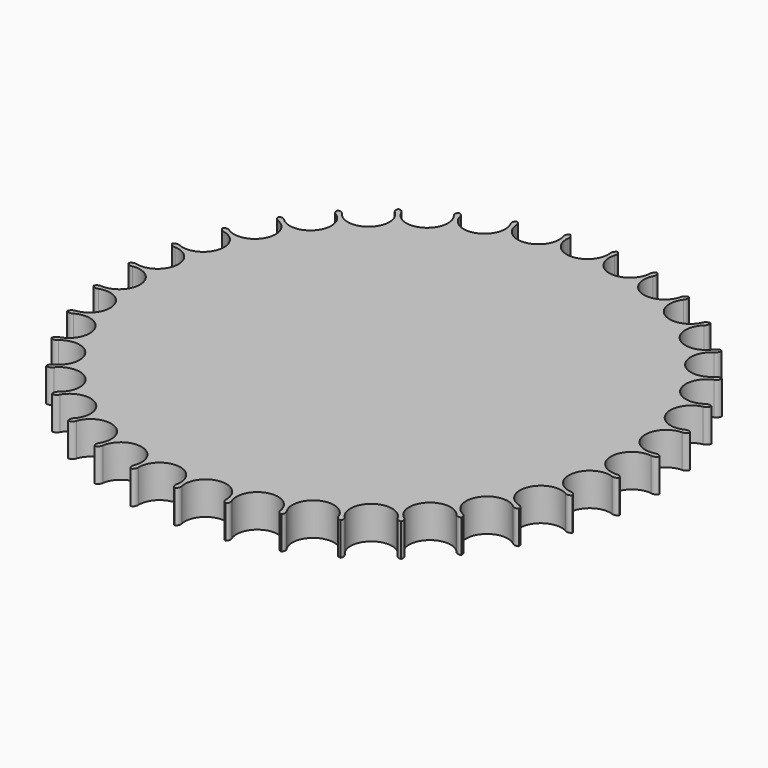
from build123d import *

# Parameters (mm, degrees)
F1_DEPTH = 5


with BuildPart() as f1:
    # F0 (on Top) → F1 (new body)
    with BuildSketch(Plane.XY):
        with BuildLine():
            ThreePointArc((-24.457556, 78.779693), (-28.980906, 79.883488), (-27.460124, 84.284202))
            ThreePointArc((-27.460124, 84.284202), (-27.025335, 84.591656), (-26.889149, 85.106458))
            ThreePointArc((-26.889149, 85.106458), (-27.416891, 85.177568), (-27.867286, 84.893467))
            ThreePointArc((-27.867286, 84.893467), (-32.515034, 85.171848), (-31.804469, 89.773387))
            ThreePointArc((-31.804469, 89.773387), (-31.431566, 90.153534), (-31.38949, 90.684381))
            ThreePointArc((-31.38949, 90.684381), (-31.921448, 90.660115), (-32.313877, 90.300159))
            ThreePointArc((-32.313877, 90.300159), (-36.936641, 89.744179), (-37.059131, 94.398646))
            ThreePointArc((-37.059131, 94.398646), (-36.760099, 94.839268), (-36.813485, 95.369096))
            ThreePointArc((-36.813485, 95.369096), (-37.332562, 95.250236), (-37.654411, 94.825994))
            ThreePointArc((-37.654411, 94.825994), (-42.103612, 93.453522), (-43.055221, 98.011318))
            ThreePointArc((-43.055221, 98.011318), (-42.83967, 98.498254), (-42.986803, 99.010035))
            ThreePointArc((-42.986803, 99.010035), (-43.476314, 98.800401), (-43.71724, 98.325508))
            ThreePointArc((-43.71724, 98.325508), (-47.849876, 96.180657), (-49.600018, 100.495291))
            ThreePointArc((-49.600018, 100.495291), (-49.474877, 101.012889), (-49.711027, 101.490174))
            ThreePointArc((-49.711027, 101.490174), (-50.155241, 101.196503), (-50.307499, 100.686223))
            ThreePointArc((-50.307499, 100.686223), (-53.990744, 97.83793), (-56.483168, 101.770726))
            ThreePointArc((-56.483168, 101.770726), (-56.452459, 102.302351), (-56.770037, 102.7298))
            ThreePointArc((-56.770037, 102.7298), (-57.154674, 102.36153), (-57.213372, 101.832264))
            ThreePointArc((-57.213372, 101.832264), (-60.328843, 98.372076), (-63.483441, 101.79663))
            ThreePointArc((-63.483441, 101.79663), (-63.54815, 102.325195), (-63.936949, 102.689069))
            ThreePointArc((-63.936949, 102.689069), (-64.249648, 102.258038), (-64.212898, 101.726797))
            ThreePointArc((-64.212898, 101.726797), (-66.660462, 97.765926), (-70.375842, 100.572172))
            ThreePointArc((-70.375842, 100.572172), (-70.53389, 101.080688), (-70.981413, 101.369292))
            ThreePointArc((-70.981413, 101.369292), (-71.212123, 100.889353), (-71.081107, 100.37321))
            ThreePointArc((-71.081107, 100.37321), (-72.782097, 96.038964), (-76.938844, 98.136705))
            ThreePointArc((-76.938844, 98.136705), (-77.185151, 98.608829), (-77.677014, 98.812886))
            ThreePointArc((-77.677014, 98.812886), (-77.818321, 98.299465), (-77.597249, 97.815011))
            ThreePointArc((-77.597249, 97.815011), (-78.496993, 93.246694), (-82.961506, 94.568508))
            ThreePointArc((-82.961506, 94.568508), (-83.288156, 94.989064), (-83.80855, 95.102017))
            ThreePointArc((-83.80855, 95.102017), (-83.855911, 94.571616), (-83.55189, 94.134421))
            ThreePointArc((-83.55189, 94.134421), (-83.62147, 89.478863), (-88.250255, 89.982265))
            ThreePointArc((-88.250255, 89.982265), (-88.646749, 90.337737), (-89.178949, 90.355955))
            ThreePointArc((-89.178949, 90.355955), (-89.130842, 89.825621), (-88.753642, 89.449737))
            ThreePointArc((-88.753642, 89.449737), (-87.990823, 84.856572), (-92.635107, 84.525383))
            ThreePointArc((-92.635107, 84.525383), (-93.088701, 84.804346), (-93.615601, 84.727242))
            ThreePointArc((-93.615601, 84.727242), (-93.473573, 84.214021), (-93.035318, 83.911529))
            ThreePointArc((-93.035318, 83.911529), (-91.464616, 79.528385), (-95.975128, 78.373249))
            ThreePointArc((-95.975128, 78.373249), (-96.471244, 78.566737), (-96.975909, 78.396791))
            ThreePointArc((-96.975909, 78.396791), (-96.744524, 77.917177), (-96.2593, 77.6978))
            ThreePointArc((-96.2593, 77.6978), (-93.931199, 73.665554), (-98.162968, 71.723599))
            ThreePointArc((-98.162968, 71.723599), (-98.68566, 71.825392), (-99.15187, 71.568066))
            ThreePointArc((-99.15187, 71.568066), (-98.838564, 71.137476), (-98.321967, 71.008264))
            ThreePointArc((-98.321967, 71.008264), (-95.311294, 67.456516), (-99.128308, 64.790157))
            ThreePointArc((-99.128308, 64.790157), (-99.660775, 64.796985), (-100.073546, 64.460549))
            ThreePointArc((-100.073546, 64.460549), (-99.68839, 64.092821), (-99.157023, 64.057928))
            ThreePointArc((-99.157023, 64.057928), (-95.560544, 61.100835), (-98.84012, 57.795771))
            ThreePointArc((-98.84012, 57.795771), (-99.36525, 57.707413), (-99.711314, 57.302681))
            ThreePointArc((-99.711314, 57.302681), (-99.266688, 57.009635), (-98.73763, 57.070181))
            ThreePointArc((-98.73763, 57.070181), (-94.670938, 54.802786), (-97.307668, 50.965246))
            ThreePointArc((-97.307668, 50.965246), (-97.808582, 50.784542), (-98.076817, 50.324522))
            ThreePointArc((-98.076817, 50.324522), (-97.58701, 50.115576), (-97.077265, 50.269617))
            ThreePointArc((-97.077265, 50.269617), (-92.671068, 48.764795), (-94.580205, 44.518119))
            ThreePointArc((-94.580205, 44.518119), (-95.040803, 44.250878), (-95.222588, 43.750355))
            ThreePointArc((-95.222588, 43.750355), (-94.703344, 43.632226), (-94.229296, 43.874809))
            ThreePointArc((-94.229296, 43.874809), (-89.625212, 43.180928), (-90.745395, 38.661608))
            ThreePointArc((-90.745395, 38.661608), (-91.150874, 38.316418), (-91.240365, 37.79148))
            ThreePointArc((-91.240365, 37.79148), (-90.708373, 37.767964), (-90.285258, 38.091294))
            ThreePointArc((-90.285258, 38.091294), (-85.631266, 38.230654), (-85.926492, 33.583945))
            ThreePointArc((-85.926492, 33.583945), (-86.263818, 33.171902), (-86.25814, 32.639421))
            ThreePointArc((-86.25814, 32.639421), (-85.730498, 32.711273), (-85.371916, 33.104957))
            ThreePointArc((-85.371916, 33.104957), (-80.817599, 34.07308), (-80.278379, 29.448331))
            ThreePointArc((-80.278379, 29.448331), (-80.53671, 28.982677), (-80.436046, 28.459767))
            ThreePointArc((-80.436046, 28.459767), (-79.929713, 28.624679), (-79.647188, 29.076063))
            ThreePointArc((-79.647188, 29.076063), (-75.338926, 30.841833), (-73.98259, 26.387687))
            ThreePointArc((-73.98259, 26.387687), (-74.153625, 25.88339), (-73.961209, 25.386858))
            ThreePointArc((-73.961209, 25.386858), (-73.492459, 25.639528), (-73.295072, 26.134105))
            ThreePointArc((-73.295072, 26.134105), (-69.371337, 28.640768), (-67.241479, 24.500386))
            ThreePointArc((-67.241479, 24.500386), (-67.319719, 23.973653), (-67.041736, 23.519458))
            ThreePointArc((-67.041736, 23.519458), (-66.625635, 23.851766), (-66.519731, 24.37364))
            ThreePointArc((-66.519731, 24.37364), (-63.106633, 27.54063), (-60.271709, 23.847086))
            ThreePointArc((-60.271709, 23.847086), (-60.254641, 23.314848), (-59.900025, 22.917587))
            ThreePointArc((-59.900025, 22.917587), (-59.549947, 23.318853), (-59.538929, 23.85125))
            ThreePointArc((-59.538929, 23.85125), (-56.746169, 27.576777), (-53.297296, 24.448785))
            ThreePointArc((-53.297296, 24.448785), (-53.185466, 23.928148), (-52.765616, 23.600591))
            ThreePointArc((-52.765616, 23.600591), (-52.492813, 24.057917), (-52.577035, 24.583726))
            ThreePointArc((-52.577035, 24.583726), (-50.494374, 28.748049), (-46.542401, 26.286145))
            ThreePointArc((-46.542401, 26.286145), (-46.339406, 25.793842), (-45.867814, 25.546516))
            ThreePointArc((-45.867814, 25.546516), (-45.681054, 26.045204), (-45.857809, 26.547524))
            ThreePointArc((-45.857809, 26.547524), (-44.552187, 31.016798), (-40.224134, 29.30011))
            ThreePointArc((-40.224134, 29.30011), (-39.936496, 28.851966), (-39.428322, 28.69282))
            ThreePointArc((-39.428322, 28.69282), (-39.333607, 29.21684), (-39.597215, 29.679528))
            ThreePointArc((-39.597215, 29.679528), (-39.110594, 34.310107), (-34.545568, 33.39381))
            ThreePointArc((-34.545568, 33.39381), (-34.182534, 33.004227), (-33.654109, 32.938377))
            ThreePointArc((-33.654109, 32.938377), (-33.654484, 33.470888), (-33.996471, 33.879071))
            ThreePointArc((-33.996471, 33.879071), (-34.344492, 38.522124), (-29.689217, 38.435669))
            ThreePointArc((-29.689217, 38.435669), (-29.262454, 38.117169), (-28.730764, 38.146731))
            ThreePointArc((-28.730764, 38.146731), (-28.826216, 38.670618), (-29.235592, 39.011177))
            ThreePointArc((-29.235592, 39.011177), (-30.407069, 43.517473), (-25.811168, 44.263639))
            ThreePointArc((-25.811168, 44.263639), (-25.334394, 44.026459), (-24.816526, 44.150483))
            ThreePointArc((-24.816526, 44.150483), (-25.003988, 44.648907), (-25.467594, 44.910896))
            ThreePointArc((-25.467594, 44.910896), (-27.424875, 49.135598), (-23.036066, 50.690403))
            ThreePointArc((-23.036066, 50.690403), (-22.524603, 50.542166), (-22.037204, 50.756665))
            ThreePointArc((-22.037204, 50.756665), (-22.31065, 51.213607), (-22.813585, 51.388606))
            ThreePointArc((-22.813585, 51.388606), (-25.493762, 55.19593), (-21.453104, 57.5094))
            ThreePointArc((-21.453104, 57.5094), (-20.923392, 57.45487), (-20.482125, 57.752951))
            ThreePointArc((-20.482125, 57.752951), (-20.832767, 58.153724), (-21.358867, 58.236108))
            ThreePointArc((-21.358867, 58.236108), (-24.675796, 61.503683), (-21.113159, 64.501462))
            ThreePointArc((-21.113159, 64.501462), (-20.582223, 64.542392), (-20.201272, 64.914474))
            ThreePointArc((-20.201272, 64.914474), (-20.61784, 65.246197), (-21.150196, 65.233318))
            ThreePointArc((-21.150196, 65.233318), (-24.997268, 67.856121), (-22.027159, 71.441858))
            ThreePointArc((-22.027159, 71.441858), (-21.512063, 71.576933), (-21.203672, 72.011056))
            ThreePointArc((-21.203672, 72.011056), (-21.672777, 72.263067), (-22.194278, 72.155339))
            ThreePointArc((-22.194278, 72.155339), (-26.447846, 74.049071), (-24.165725, 78.107518))
            ThreePointArc((-24.165725, 78.107518), (-23.683026, 78.332396), (-23.457107, 78.814608))
            ThreePointArc((-23.457107, 78.814608), (-23.963671, 78.978807), (-24.457556, 78.779693))
        make_face()
    extrude(amount=F1_DEPTH)


solid = f1.part
